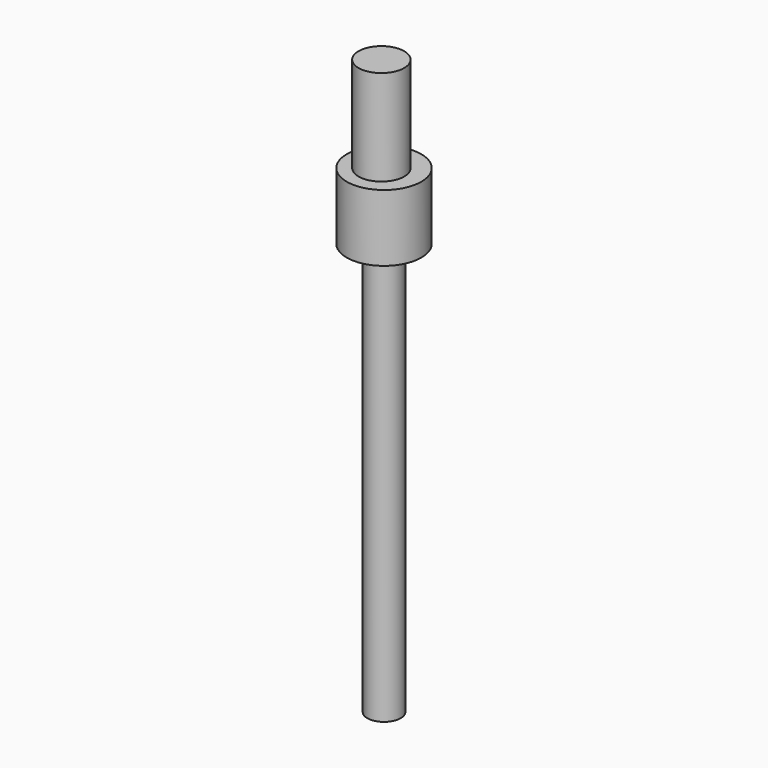
from build123d import *

# Parameters (mm, degrees)
F0_R     = 8.68177
F1_DEPTH = 61.722
F2_R     = 14.1875
F3_DEPTH = 25.4
F4_R     = 6.345818
F5_DEPTH = 156.718


with BuildPart() as f1:
    # F0 (on Top) → F1 (new body)
    with BuildSketch(Plane.XY):
        with Locations((-31.216556, 36.700543)):
            Circle(F0_R)
    extrude(amount=F1_DEPTH)

    # F2 (on Top) → F3 (join)
    with BuildSketch(Plane.XY):
        with Locations((-30.654097, 37.263006)):
            Circle(F2_R)
    extrude(amount=F3_DEPTH)

    # F4 (on face) → F5 (join)
    with BuildSketch(Plane(origin=(0, 0, 0), x_dir=(1, 0, 0), z_dir=(0, 0, -1))):
        with Locations((-30.654097, -37.263006)):
            Circle(F4_R)
    extrude(amount=F5_DEPTH)


solid = f1.part
